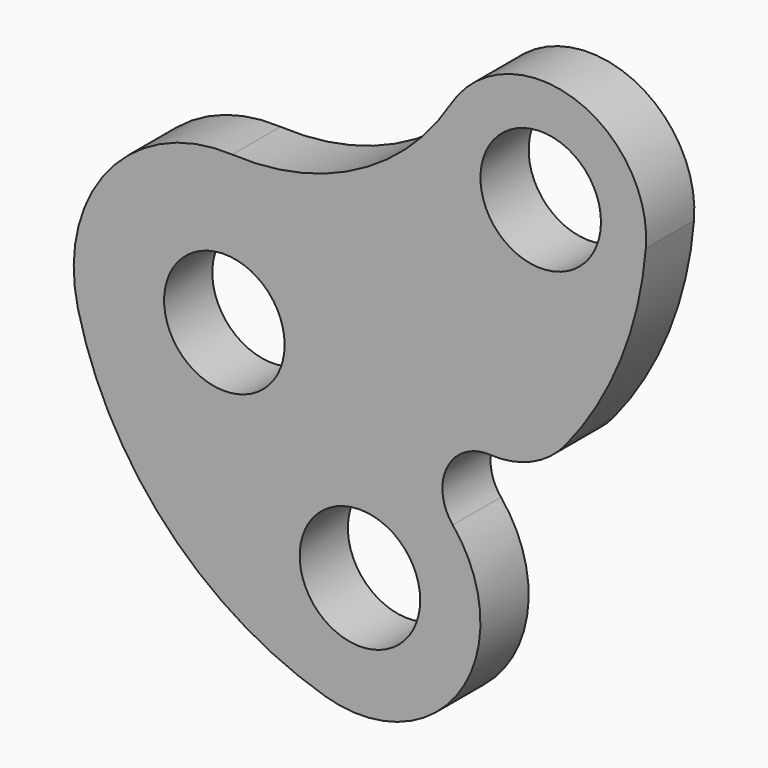
from build123d import *

# Parameters (mm, degrees)
F0_R     = 10
F1_DEPTH = 10


with BuildPart() as f1:
    # F0 (on Front) → F1 (new body)
    with BuildSketch(Plane.XZ):
        with BuildLine():
            ThreePointArc((37.554206, 44.103474), (22.067235, 29.538399), (1.304766, 24.965929))
            ThreePointArc((1.304766, 24.965929), (-19.255297, 15.944702), (-24.284847, -5.93685))
            ThreePointArc((-24.284847, -5.93685), (-9.512511, -33.001447), (16.750607, -49.155795))
            ThreePointArc((16.750607, -49.155795), (39.169931, -41.050494), (37.904534, -17.244596))
            ThreePointArc((37.904534, -17.244596), (36.990811, -9.071889), (44.120823, -4.974213))
            ThreePointArc((44.120823, -4.974213), (51.030762, -3.734261), (56.619703, 0.514089))
            ThreePointArc((56.619703, 0.514089), (65.792763, 16.032989), (69.941986, 33.576228))
            ThreePointArc((69.941986, 33.576228), (57.909572, 51.642912), (37.554206, 44.103474))
        make_face()
        Circle(F0_R, mode=Mode.SUBTRACT)
        with Locations((22.5, -30)):
            Circle(F0_R, mode=Mode.SUBTRACT)
        with Locations((52.5, 35)):
            Circle(F0_R, mode=Mode.SUBTRACT)
    extrude(amount=-F1_DEPTH)


solid = f1.part
